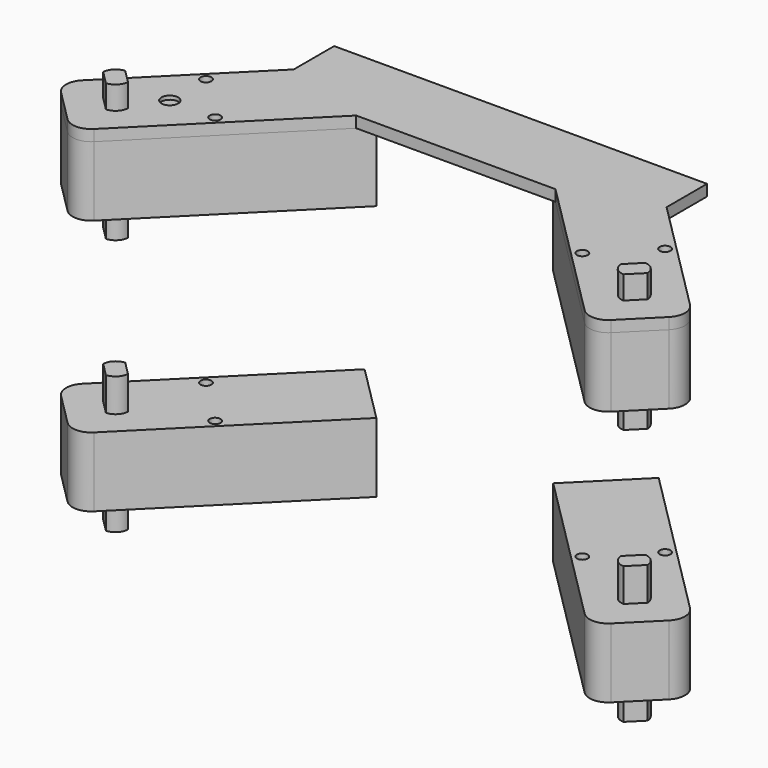
from build123d import *

# Parameters (mm, degrees)
F0_R         = 1.45
F0_R_2       = 2.24
F0_R_3       = 4.865
F0_R_4       = 3.415
F1_DEPTH     = 18.64
F3_DEPTH     = 9.2
F4_R         = 2.24
F5_DEPTH     = 2
F6_W         = 4.65
F6_H         = 5.0977936404
F7_DEPTH     = 8.93
F8_ANGLE     = 45
F10_FACE_R   = 1.45
F10_FACE_R_2 = 2.24
F1_FACE_R    = 1.45
F1_FACE_R_2  = 2.24
F15_DEPTH    = 3
F16_DEPTH    = 0.04
F17_DEPTH    = 0.04


with BuildPart() as f1:
    # F0 (on Top) → F1 (new body)
    with BuildSketch(Plane.XY):
        with BuildLine():
            Line((-53.71, -11.11), (5.8, -11.11))
            ThreePointArc((5.8, -11.11), (9.3355339059, -9.6455339059), (10.8, -6.11))
            Line((10.8, -6.11), (10.8, 6.11))
            ThreePointArc((10.8, 6.11), (9.3355339059, 9.6455339059), (5.8, 11.11))
            Line((5.8, 11.11), (-53.71, 11.11))
            Line((-53.71, 11.11), (-53.71, -11.11))
        make_face()
        with Locations((-20.01, -8.72)):
            Circle(F0_R, mode=Mode.SUBTRACT)
        with Locations((-11.43, 0)):
            Circle(F0_R_2, mode=Mode.SUBTRACT)
        Circle(F0_R_3, mode=Mode.SUBTRACT)
        with Locations((-20.01, 8.72)):
            Circle(F0_R, mode=Mode.SUBTRACT)
        Circle(F0_R_3)
        Circle(F0_R_4, mode=Mode.SUBTRACT)
        Circle(F0_R_4)
        with Locations((-11.43, 0)):
            Circle(F0_R_2)
    extrude(amount=F1_DEPTH)

    # F2 (on face) → F3 (join)
    with BuildSketch(Plane.XY.offset(18.64)):
        with BuildLine():
            Line((-2.325, 2.5488968202), (-2.325, -2.5488968202))
            ThreePointArc((-2.325, -2.5488968202), (0, -3.45), (2.325, -2.5488968202))
            Line((2.325, -2.5488968202), (2.325, 2.5488968202))
            Line((2.325, 2.5488968202), (-2.325, 2.5488968202))
        make_face()
        with BuildLine():
            ThreePointArc((2.325, 2.5488968202), (0, 3.45), (-2.325, 2.5488968202))
            Line((-2.325, 2.5488968202), (2.325, 2.5488968202))
        make_face()
    extrude(amount=F3_DEPTH)

    # F4 (on face) → F5 (join)
    with BuildSketch(Plane.XY.offset(18.64)):
        with Locations((-11.43, 0)):
            Circle(F4_R)
    extrude(amount=F5_DEPTH)

    # F6 (on face) → F7 (join)
    with BuildSketch(Plane.XY):
        with BuildLine():
            Line((-2.325, 2.5488968202), (2.325, 2.5488968202))
            ThreePointArc((2.325, 2.5488968202), (0, 3.45), (-2.325, 2.5488968202))
        make_face()
        with BuildLine():
            ThreePointArc((-2.325, -2.5488968202), (0, -3.45), (2.325, -2.5488968202))
            Line((2.325, -2.5488968202), (-2.325, -2.5488968202))
        make_face()
        Rectangle(F6_W, F6_H)
    extrude(amount=-F7_DEPTH)


with BuildPart() as f1_1:
    # F8: moved
    add(f1.part.rotate(Axis((5.8, -11.11, 9.32), (0, 0, -1)), F8_ANGLE))


with BuildPart() as f10_1:
    # F10: instance of F1
    add(f1_1.part.mirror(Plane.YZ.offset(-60)))


with BuildPart() as f12_1:
    # F12: instance of F1
    add(f1_1.part.mirror(Plane.XY.offset(-25)))


with BuildPart() as f12_2:
    # F12: instance of F10_1
    add(f10_1.part.mirror(Plane.XY.offset(-25)))


with BuildPart() as f15:
    # F10_face (on face) + F1_face (on face) + F14 (on offset) → F15 (new body)
    with BuildSketch(Plane(origin=(-113.7912233379, 16.6106893401, 18.64), x_dir=(1, 0, 0), z_dir=(0, 0, 1))):
        with BuildLine():
            Line((14.3592352083, 30.0711478863), (-27.7206893401, -12.0087766621))
            ThreePointArc((-27.7206893401, -12.0087766621), (-29.1851554342, -15.5443105681), (-27.7206893401, -19.079844474))
            Line((-27.7206893401, -19.079844474), (-19.079844474, -27.7206893401))
            ThreePointArc((-19.079844474, -27.7206893401), (-15.5443105681, -29.1851554342), (-12.0087766621, -27.7206893401))
            Line((-12.0087766621, -27.7206893401), (30.0711478863, 14.3592352083))
            Line((30.0711478863, 14.3592352083), (14.3592352083, 30.0711478863))
        make_face()
        with Locations((4.5516641533, -7.7802781106)):
            Circle(F10_FACE_R, mode=Mode.SUBTRACT)
        with Locations((-7.6812831613, -7.6812831613)):
            Circle(F10_FACE_R_2, mode=Mode.SUBTRACT)
        with Locations((-7.7802781106, 4.5516641533)):
            Circle(F10_FACE_R, mode=Mode.SUBTRACT)
        with BuildLine():
            ThreePointArc((-12.3171481779, -15.9218326301), (-13.3239952751, -18.2030320653), (-15.6051947104, -19.2098791626))
            Line((-15.6051947104, -19.2098791626), (-19.2098791626, -15.6051947104))
            ThreePointArc((-19.2098791626, -15.6051947104), (-18.2030320653, -13.3239952751), (-15.9218326301, -12.3171481779))
            Line((-15.9218326301, -12.3171481779), (-12.3171481779, -15.9218326301))
        make_face(mode=Mode.SUBTRACT)
    with BuildSketch(Plane(origin=(-21.7055934249, 0, 18.64), x_dir=(1, 0, 0), z_dir=(0, 0, 1))):
        with BuildLine():
            Line((43.2175061028, 4.601912678), (1.1375815544, 46.6818372264))
            Line((1.1375815544, 46.6818372264), (-14.5743311236, 30.9699245484))
            Line((-14.5743311236, 30.9699245484), (27.5055934249, -11.11))
            ThreePointArc((27.5055934249, -11.11), (31.0411273308, -12.5744660941), (34.5766612367, -11.11))
            Line((34.5766612367, -11.11), (43.2175061028, -2.4691551339))
            ThreePointArc((43.2175061028, -2.4691551339), (44.6819721969, 1.066378772), (43.2175061028, 4.601912678))
        make_face()
        with Locations((10.9451526095, 8.8304112295)):
            Circle(F1_FACE_R, mode=Mode.SUBTRACT)
        with Locations((23.178099924, 8.9294061788)):
            Circle(F1_FACE_R_2, mode=Mode.SUBTRACT)
        with Locations((23.2770948734, 21.1623534934)):
            Circle(F1_FACE_R, mode=Mode.SUBTRACT)
        with BuildLine():
            ThreePointArc((31.1020114731, -2.5991898225), (28.8208120379, -1.5923427252), (27.8139649406, 0.68885671))
            Line((27.8139649406, 0.68885671), (31.4186493928, 4.2935411622))
            ThreePointArc((31.4186493928, 4.2935411622), (33.6998488281, 3.286694065), (34.7066959253, 1.0054946297))
            Line((34.7066959253, 1.0054946297), (31.1020114731, -2.5991898225))
        make_face(mode=Mode.SUBTRACT)
    with BuildSketch(Plane.XY.offset(18.6)):
        Polygon((-83.7200754516, 30.9699245484), (-86.7200754516, 27.9699245484), (-33.2799245484, 27.9699245484), (-36.2799245484, 30.9699245484), (-23.5680118704, 43.6818372264), (-96.4319881296, 43.6818372264), align=None)
        Polygon((-10, 49.6818372264), (-110, 49.6818372264), (-110, 43.6818372264), (-102.4319881296, 43.6818372264), (-99.4319881296, 46.6818372264), (-96.4319881296, 43.6818372264), (-23.5680118704, 43.6818372264), (-20.5680118704, 46.6818372264), (-17.5680118704, 43.6818372264), (-10, 43.6818372264), align=None)
        Polygon((-10, 36.1138253559), (-10, 43.6818372264), (-17.5680118704, 43.6818372264), align=None)
        Polygon((-110, 43.6818372264), (-110, 36.1138253559), (-102.4319881296, 43.6818372264), align=None)
    extrude(amount=F15_DEPTH)

    # F16 (cut): a face of the model
    f16_faces = [f15.faces().sort_by_distance(p)[0] for p in [
        (-60, 40.444241851, 18.6),
    ]]
    extrude(f16_faces, amount=-F16_DEPTH, mode=Mode.SUBTRACT)

    # F17 (add): a face of the model
    f17_faces = [f15.faces().sort_by_distance(p)[0] for p in [
        (-60, 40.444241851, 21.6),
    ]]
    extrude(f17_faces, amount=F17_DEPTH)


solid = Compound([f1_1.part, f10_1.part, f12_1.part, f12_2.part, f15.part])
